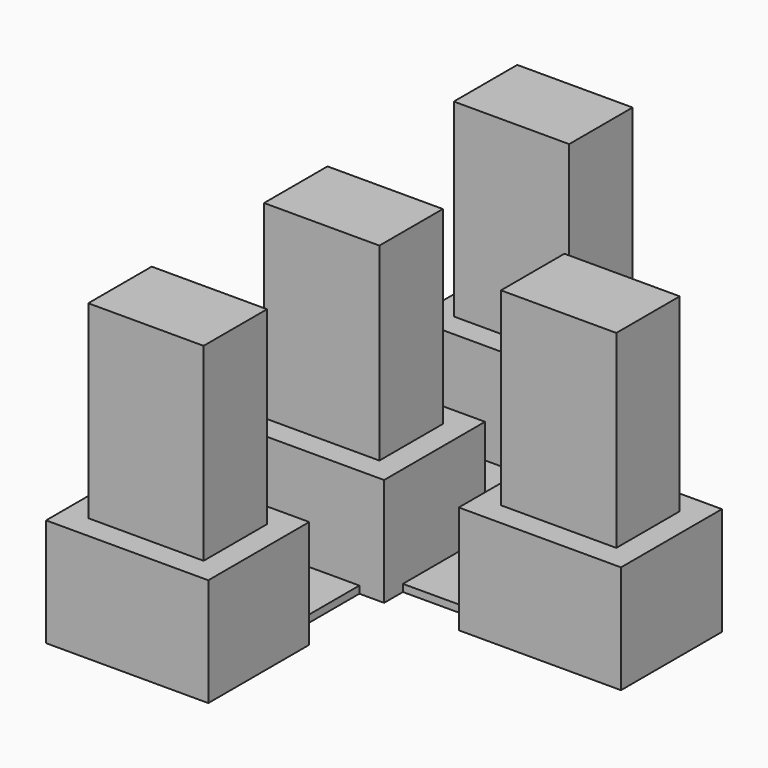
from build123d import *

# Parameters (mm, degrees)
F0_W     = 6.4
F0_H     = 4.4
F1_DEPTH = 6
F2_DEPTH = 16.5
F0_H_2   = 5.571128
F0_W_2   = 6.627438
F0_H_3   = 5.102501
F3_DEPTH = 0.4


with BuildPart() as f1:
    # F0 (on Top) → F1 (new body)
    with BuildSketch(Plane.XY):
        Polygon((-28.141729, 1.429472), (-34.541729, 1.429472), (-35.841729, 1.429472), (-35.841729, -5.570528), (-34.841729, -5.570528), (-28.214291, -5.570528), (-26.841729, -5.570528), (-26.841729, -4.26808), (-26.841729, 0.13192), (-26.841729, 1.429472), align=None)
        with Locations((-31.341729, -2.070528)):
            Rectangle(F0_W, F0_H, mode=Mode.SUBTRACT)
        Polygon((-22.707351, 1.442154), (-22.707351, 0.139706), (-22.707351, -4.260294), (-22.707351, -5.557846), (-13.707351, -5.557846), (-13.707351, 1.442154), align=None)
        with Locations((-18.207351, -2.057846)):
            Rectangle(F0_W, F0_H, mode=Mode.SUBTRACT)
        Polygon((-26.370052, 14.0006), (-35.370052, 14.0006), (-35.370052, 7.0006), (-34.541729, 7.0006), (-28.141729, 7.0006), (-26.370052, 7.0006), align=None)
        with Locations((-30.870052, 10.5006)):
            Rectangle(F0_W, F0_H, mode=Mode.SUBTRACT)
        Polygon((-28.214291, -10.673029), (-34.841729, -10.673029), (-35.914291, -10.673029), (-35.914291, -17.673029), (-26.914291, -17.673029), (-26.914291, -10.673029), align=None)
        with Locations((-31.414291, -14.173029)):
            Rectangle(F0_W, F0_H, mode=Mode.SUBTRACT)
    extrude(amount=F1_DEPTH)


with BuildPart() as f2:
    # F0 (on Top) → F2 (new body)
    with BuildSketch(Plane.XY):
        with Locations((-30.870052, 10.5006)):
            Rectangle(F0_W, F0_H)
        with Locations((-31.341729, -2.070528)):
            Rectangle(F0_W, F0_H)
        with Locations((-18.207351, -2.057846)):
            Rectangle(F0_W, F0_H)
        with Locations((-31.414291, -14.173029)):
            Rectangle(F0_W, F0_H)
    extrude(amount=F2_DEPTH)


with BuildPart() as f3:
    # F0 (on Top) → F3 (new body)
    with BuildSketch(Plane.XY):
        Polygon((-22.707351, 0.139706), (-26.841729, 0.13192), (-26.841729, -4.26808), (-22.707351, -4.260294), align=None)
        with Locations((-31.341729, 4.215036)):
            Rectangle(F0_W, F0_H_2)
        with Locations((-31.52801, -8.121778)):
            Rectangle(F0_W_2, F0_H_3)
    extrude(amount=F3_DEPTH)


solid = Compound([f1.part, f2.part, f3.part])
